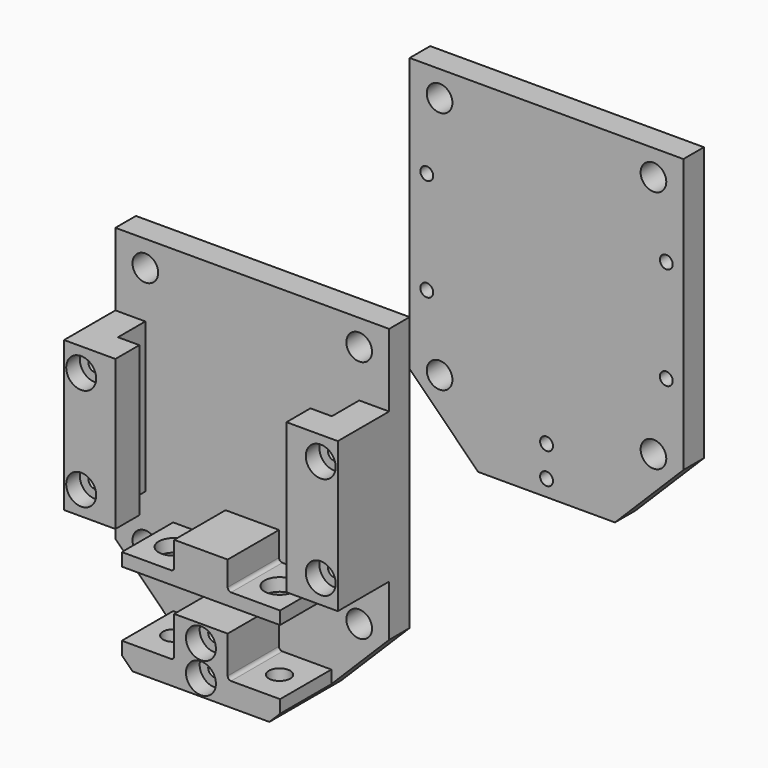
from build123d import *

# Parameters (mm, degrees)
F0_R      = 4.7625
F1_DEPTH  = 9.525
F2_W      = 11.1125
F2_H      = 55.5625
F3_DEPTH  = 23.8125
F4_W      = 11.1125
F4_H      = 55.5625
F5_DEPTH  = 7.9375
F6_W      = 11.1125
F6_H      = 55.5625
F7_DEPTH  = 7.9375
F8_R      = 5.55625
F9_DEPTH  = 6.35
F10_R     = 2.38125
F11_DEPTH = 50.8
F12_R     = 5.55625
F13_DEPTH = 6.35
F14_R     = 3.96875
F15_DEPTH = 25.4
F17_R     = 4.7625
F17_R_2   = 2.38125
F18_DEPTH = 9.525


with BuildPart() as f1:
    # F0 (on Front) → F1 (new body)
    with BuildSketch(Plane.XZ):
        Polygon((50.8, 47.947012), (-50.8, 47.947012), (-50.8, -53.652988), (-25.4, -79.052988), (25.4, -79.052988), (50.8, -53.652988), align=None)
        with Locations((-39.6875, -52.065488)):
            Circle(F0_R, mode=Mode.SUBTRACT)
        with Locations((39.6875, -52.065488)):
            Circle(F0_R, mode=Mode.SUBTRACT)
        with Locations((-39.6875, 38.422012)):
            Circle(F0_R, mode=Mode.SUBTRACT)
        with Locations((39.6875, 38.422012)):
            Circle(F0_R, mode=Mode.SUBTRACT)
    extrude(amount=F1_DEPTH)

    # F2 (on face) → F3 (join)
    with BuildSketch(Plane.XZ.offset(9.525)):
        with Locations((-45.24375, -6.821738)):
            Rectangle(F2_W, F2_H)
        with Locations((45.24375, -6.821738)):
            Rectangle(F2_W, F2_H)
        with BuildLine():
            Line((-11.191875, -41.354634), (-29.36875, -41.354634))
            Line((-29.36875, -41.354634), (-29.36875, -46.117134))
            Line((-29.36875, -46.117134), (29.36875, -46.117134))
            Line((29.36875, -46.117134), (29.36875, -41.354634))
            Line((29.36875, -41.354634), (11.191875, -41.354634))
            ThreePointArc((11.191875, -41.354634), (10.293849, -40.982659), (9.921875, -40.084634))
            Line((9.921875, -40.084634), (9.921875, -31.035884))
            Line((9.921875, -31.035884), (-9.921875, -31.035884))
            Line((-9.921875, -31.035884), (-9.921875, -40.084634))
            ThreePointArc((-9.921875, -40.084634), (-10.293849, -40.982659), (-11.191875, -41.354634))
        make_face()
        with BuildLine():
            Line((-29.36875, -70.321738), (-29.36875, -75.084238))
            Line((-29.36875, -75.084238), (-25.4, -79.052988))
            Line((-25.4, -79.052988), (25.4, -79.052988))
            Line((25.4, -79.052988), (29.36875, -75.084238))
            Line((29.36875, -75.084238), (29.36875, -70.321738))
            Line((29.36875, -70.321738), (11.191875, -70.321738))
            ThreePointArc((11.191875, -70.321738), (10.293849, -69.949764), (9.921875, -69.051738))
            Line((9.921875, -69.051738), (9.921875, -55.240488))
            Line((9.921875, -55.240488), (-9.921875, -55.240488))
            Line((-9.921875, -55.240488), (-9.921875, -69.051738))
            ThreePointArc((-9.921875, -69.051738), (-10.293849, -69.949764), (-11.191875, -70.321738))
            Line((-11.191875, -70.321738), (-29.36875, -70.321738))
        make_face()
    extrude(amount=F3_DEPTH)

    # F4 (on face) → F5 (join)
    with BuildSketch(Plane.YZ.offset(-39.6875)):
        with Locations((-27.78125, -6.821738)):
            Rectangle(F4_W, F4_H)
    extrude(amount=F5_DEPTH)

    # F6 (on face) → F7 (join)
    with BuildSketch(Plane(origin=(39.6875, 0, 0), x_dir=(0, -1, 0), z_dir=(-1, 0, 0))):
        with Locations((27.78125, -6.821738)):
            Rectangle(F6_W, F6_H)
    extrude(amount=F7_DEPTH)

    # F8 (on face) → F9 (cut)
    with BuildSketch(Plane.XZ.offset(33.3375)):
        with Locations((-44.45, 12.228262)):
            Circle(F8_R)
        with Locations((-44.45, -25.871738)):
            Circle(F8_R)
        with Locations((44.45, 12.228262)):
            Circle(F8_R)
        with Locations((44.45, -25.871738)):
            Circle(F8_R)
        with Locations((0, -73.02513)):
            Circle(F8_R)
        with Locations((0, -61.590488)):
            Circle(F8_R)
    extrude(amount=-F9_DEPTH, mode=Mode.SUBTRACT)

    # F10 (on face) → F11 (cut)
    with BuildSketch(Plane.XZ.offset(26.9875)):
        with Locations((-44.45, -25.871738)):
            Circle(F10_R)
        with Locations((-44.45, 12.228262)):
            Circle(F10_R)
        with Locations((44.45, -25.871738)):
            Circle(F10_R)
        with Locations((44.45, 12.228262)):
            Circle(F10_R)
        with Locations((0, -61.590488)):
            Circle(F10_R)
        with Locations((0, -73.02513)):
            Circle(F10_R)
    extrude(amount=-F11_DEPTH, mode=Mode.SUBTRACT)

    # F12 (on face) → F13 (cut)
    with BuildSketch(Plane.XY.offset(-41.354634)):
        with Locations((-19.644995, -21.43125)):
            Circle(F12_R)
        with Locations((19.644995, -21.43125)):
            Circle(F12_R)
    extrude(amount=-F13_DEPTH, mode=Mode.SUBTRACT)

    # F14 (on face) → F15 (cut)
    with BuildSketch(Plane.XY.offset(-70.321738)):
        with Locations((-19.644995, -21.43125)):
            Circle(F14_R)
        with Locations((19.644995, -21.43125)):
            Circle(F14_R)
    extrude(amount=-F15_DEPTH, mode=Mode.SUBTRACT)


with BuildPart() as f18:
    # F17 (on offset) → F18 (new body)
    with BuildSketch(Plane.XZ.offset(-127)):
        Polygon((50.8, 47.947012), (-50.8, 47.947012), (-50.8, -53.652988), (-25.4, -79.052988), (25.4, -79.052988), (50.8, -53.652988), align=None)
        with Locations((-39.6875, -52.065488)):
            Circle(F17_R, mode=Mode.SUBTRACT)
        with Locations((0, -73.02513)):
            Circle(F17_R_2, mode=Mode.SUBTRACT)
        with Locations((0, -61.590488)):
            Circle(F17_R_2, mode=Mode.SUBTRACT)
        with Locations((-44.45, -25.871738)):
            Circle(F17_R_2, mode=Mode.SUBTRACT)
        with Locations((39.6875, -52.065488)):
            Circle(F17_R, mode=Mode.SUBTRACT)
        with Locations((44.45, -25.871738)):
            Circle(F17_R_2, mode=Mode.SUBTRACT)
        with Locations((-44.45, 12.228262)):
            Circle(F17_R_2, mode=Mode.SUBTRACT)
        with Locations((-39.6875, 38.422012)):
            Circle(F17_R, mode=Mode.SUBTRACT)
        with Locations((44.45, 12.228262)):
            Circle(F17_R_2, mode=Mode.SUBTRACT)
        with Locations((39.6875, 38.422012)):
            Circle(F17_R, mode=Mode.SUBTRACT)
    extrude(amount=-F18_DEPTH)


solid = Compound([f1.part, f18.part])
